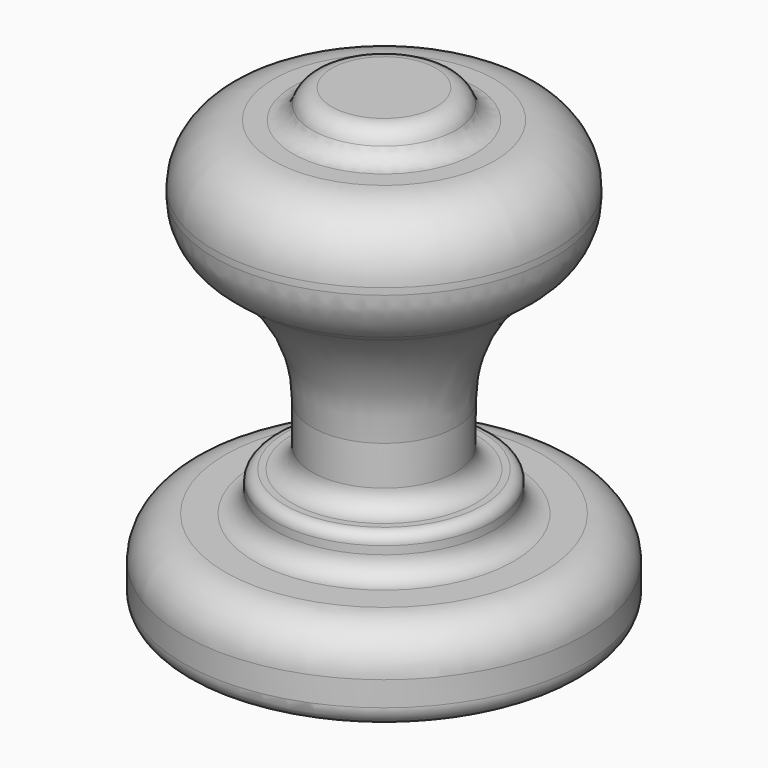
from build123d import *

# Parameters (mm, degrees)
F2_R      = 5.08
F3_R      = 5.08
F4_R      = 14.728224
F5_R      = 15.511253
F6_R      = 38.098019
F7_R      = 5.08
F8_R      = 2.646678
F9_R      = 5.08
F10_R     = 10.410016
F11_R     = 5.08
F12_R     = 10.316885
F13_DEPTH = 41.51547


with BuildPart() as f1:
    # F0 (on Front) → F1 (revolve)
    with BuildSketch(Plane.XZ):
        Polygon((0, 114.808097), (0, 0), (49.900692, 0), (49.900692, 21.628354), (27.159764, 21.628354), (27.159764, 31.348426), (17.823517, 31.348426), (17.823517, 65.33698), (42.215947, 83.55964), (42.215947, 107.713066), (18.061839, 107.713066), (18.061839, 114.808097), align=None)
        Polygon((0, 114.808097), (0, 0), (49.900692, 0), (49.900692, 21.628354), (27.159764, 21.628354), (27.159764, 31.348426), (17.823517, 31.348426), (17.823517, 65.33698), (42.215947, 83.55964), (42.215947, 107.713066), (18.061839, 107.713066), (18.061839, 114.808097), align=None)
        Polygon((0, 114.808097), (0, 0), (49.900692, 0), (49.900692, 21.628354), (27.159764, 21.628354), (27.159764, 31.348426), (17.823517, 31.348426), (17.823517, 65.33698), (42.215947, 83.55964), (42.215947, 107.713066), (18.061839, 107.713066), (18.061839, 114.808097), align=None)
    revolve(axis=Axis((0, 0, 57.404049), (0, 0, -1)))

    # F2
    f2_edges = [f1.edges().sort_by_distance(p)[0] for p in [
        (-18.061839, 0, 114.808097),
    ]]
    fillet(f2_edges, radius=F2_R)

    # F3
    f3_edges = [f1.edges().sort_by_distance(p)[0] for p in [
        (-18.061839, 0, 107.713066),
    ]]
    fillet(f3_edges, radius=F3_R)

    # F4
    f4_edges = [f1.edges().sort_by_distance(p)[0] for p in [
        (-42.215947, 0, 107.713066),
    ]]
    fillet(f4_edges, radius=F4_R)

    # F5
    f5_edges = [f1.edges().sort_by_distance(p)[0] for p in [
        (-42.215947, 0, 83.55964),
    ]]
    fillet(f5_edges, radius=F5_R)

    # F6
    f6_edges = [f1.edges().sort_by_distance(p)[0] for p in [
        (-17.823517, 0, 65.33698),
    ]]
    fillet(f6_edges, radius=F6_R)

    # F7
    f7_edges = [f1.edges().sort_by_distance(p)[0] for p in [
        (-27.159764, 0, 21.628354),
    ]]
    fillet(f7_edges, radius=F7_R)

    # F8
    f8_edges = [f1.edges().sort_by_distance(p)[0] for p in [
        (-27.159764, 0, 31.348426),
    ]]
    fillet(f8_edges, radius=F8_R)

    # F9
    f9_edges = [f1.edges().sort_by_distance(p)[0] for p in [
        (-17.823517, 0, 31.348426),
    ]]
    fillet(f9_edges, radius=F9_R)

    # F10
    f10_edges = [f1.edges().sort_by_distance(p)[0] for p in [
        (-49.900692, 0, 21.628354),
    ]]
    fillet(f10_edges, radius=F10_R)

    # F11
    f11_edges = [f1.edges().sort_by_distance(p)[0] for p in [
        (-49.900692, 0, 0),
    ]]
    fillet(f11_edges, radius=F11_R)

    # F12 (on face) → F13 (cut)
    with BuildSketch(Plane(origin=(0, 0, 0), x_dir=(1, 0, 0), z_dir=(0, 0, -1))):
        Circle(F12_R)
    extrude(amount=-F13_DEPTH, mode=Mode.SUBTRACT)


solid = f1.part
